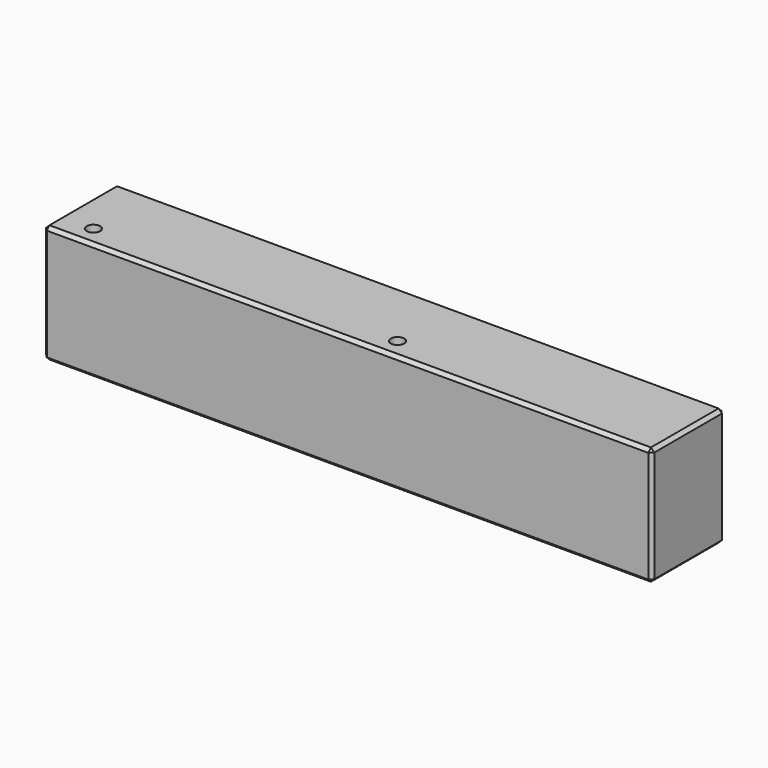
from build123d import *

# Parameters (mm, degrees)
F0_W     = 180
F0_H     = 35
F1_DEPTH = 27
F3_DEPTH = 15
F4_SIZE  = 1
F5_R     = 2
F6_DEPTH = 30


with BuildPart() as f1:
    # F0 (on Front) → F1 (new body)
    with BuildSketch(Plane.XZ):
        Rectangle(F0_W, F0_H)
    extrude(amount=F1_DEPTH)

    # F2 (on face) → F3 (cut)
    with BuildSketch(Plane(origin=(0, 0, 0), x_dir=(-1, 0, 0), z_dir=(0, 1, 0))):
        with BuildLine():
            Line((32, 12.5), (-77, 12.5))
            ThreePointArc((-77, 12.5), (-79.12132, 11.62132), (-80, 9.5))
            Line((-80, 9.5), (-80, -3.5))
            ThreePointArc((-80, -3.5), (-79.12132, -5.62132), (-77, -6.5))
            Line((-77, -6.5), (32, -6.5))
            ThreePointArc((32, -6.5), (34.12132, -5.62132), (35, -3.5))
            Line((35, -3.5), (35, 9.5))
            ThreePointArc((35, 9.5), (34.12132, 11.62132), (32, 12.5))
        make_face()
    extrude(amount=-F3_DEPTH, mode=Mode.SUBTRACT)

    # F4
    f4_edges = [f1.edges().sort_by_distance(p)[0] for p in [
        (-90, -13.5, -17.5),
        (-90, -13.5, 17.5),
        (90, -13.5, -17.5),
        (90, -13.5, 17.5),
        (0, 0, 17.5),
        (0, 0, -17.5),
        (90, -27, 0),
        (90, 0, 0),
        (-90, 0, 0),
        (-90, -27, 0),
        (0, -27, -17.5),
        (0, -27, 17.5),
    ]]
    chamfer(f4_edges, length=F4_SIZE)

    # F5 (on face) → F6 (cut)
    with BuildSketch(Plane.XY.offset(17.5)):
        with Locations((-80, -21)):
            Circle(F5_R)
        with Locations((10, -21)):
            Circle(F5_R)
    extrude(amount=-F6_DEPTH, mode=Mode.SUBTRACT)


solid = f1.part
